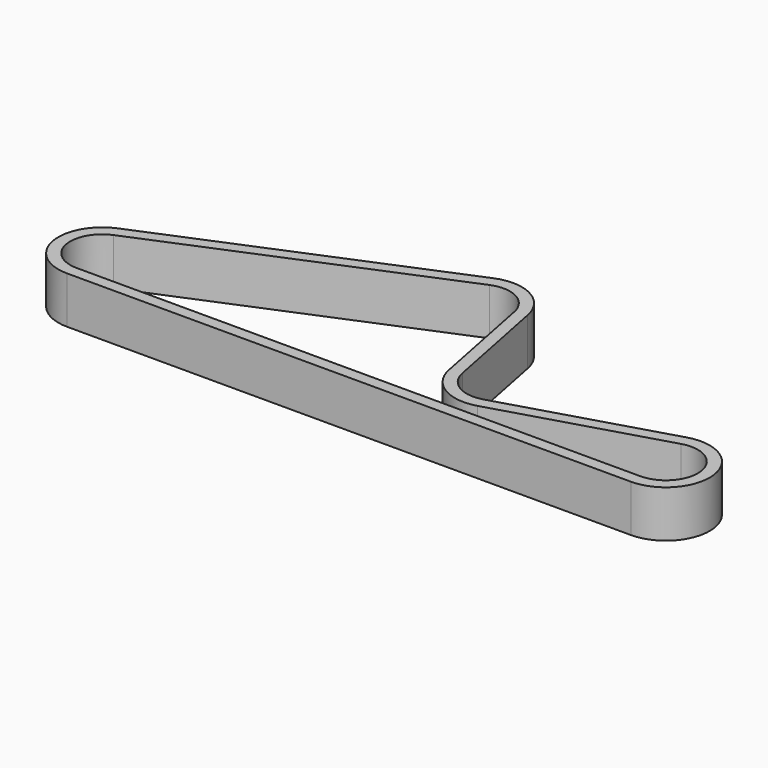
from build123d import *

# Parameters (mm, degrees)
F1_DEPTH = 3.175


with BuildPart() as f1:
    # F0 (on Top) → F1 (new body, symmetric)
    with BuildSketch(Plane.XY):
        with BuildLine():
            Line((-2.276231, 21.337954), (-40.376231, 5.462954))
            ThreePointArc((-40.376231, 5.462954), (-43.903273, -1.160655), (-38.1, -5.9182))
            Line((-38.1, -5.9182), (38.1, -5.9182))
            ThreePointArc((38.1, -5.9182), (43.956034, 0.855542), (36.40689, 5.670844))
            Line((36.40689, 5.670844), (14.189316, -0.962525))
            ThreePointArc((14.189316, -0.962525), (10.724908, -0.523144), (8.718478, 2.335075))
            Line((8.718478, 2.335075), (5.805157, 17.026191))
            ThreePointArc((5.805157, 17.026191), (2.785885, 21.096488), (-2.276231, 21.337954))
        make_face()
        with BuildLine():
            Line((38.1, -4.318), (-38.1, -4.318))
            ThreePointArc((-38.1, -4.318), (-42.334147, -0.846829), (-39.760769, 3.985846))
            Line((-39.760769, 3.985846), (-1.660769, 19.860846))
            ThreePointArc((-1.660769, 19.860846), (2.03262, 19.684669), (4.235522, 16.714925))
            Line((4.235522, 16.714925), (7.148843, 2.023809))
            ThreePointArc((7.148843, 2.023809), (9.898833, -1.893633), (14.64711, -2.495844))
            Line((14.64711, -2.495844), (36.864684, 4.137525))
            ThreePointArc((36.864684, 4.137525), (42.372643, 0.624215), (38.1, -4.318))
        make_face(mode=Mode.SUBTRACT)
    extrude(amount=F1_DEPTH, both=True)


solid = f1.part
